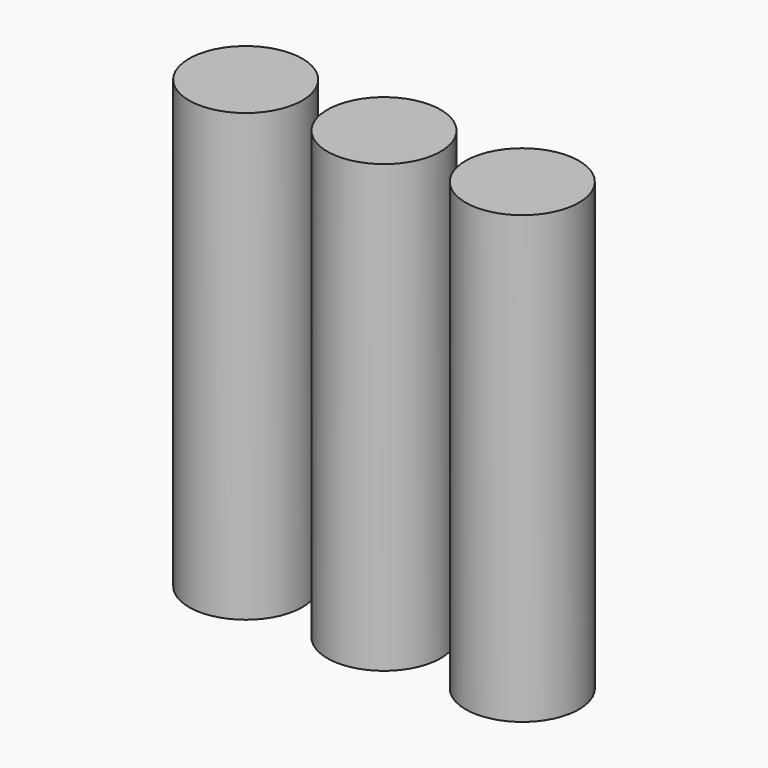
from build123d import *

# Parameters (mm, degrees)
CYLINDER007_R             = 6.35
CYLINDER007_DEPTH         = 50
CYLINDER006_R             = 6.35
CYLINDER006_DEPTH         = 50
CYLINDER009_R             = 6.35
CYLINDER009_DEPTH         = 50
CYLINDER008_R             = 6.35
CYLINDER008_DEPTH         = 50
FUSION004_PLACEMENT_ANGLE = 180
FUSION005_PLACEMENT_ANGLE = 270


with BuildPart() as cylinder007:
    # Cylinder007 → Cylinder007 (new body)
    with BuildSketch(Plane.XY):
        Circle(CYLINDER007_R)
    extrude(amount=CYLINDER007_DEPTH)


with BuildPart() as fusion003:
    # Cylinder006 → Cylinder006 (new body)
    with BuildSketch(Plane(origin=(0, 15.5, 0), x_dir=(1, 0, 0), z_dir=(0, 0, 1))):
        Circle(CYLINDER006_R)
    extrude(amount=CYLINDER006_DEPTH)

    # Fusion003: union Cylinder007
    add(cylinder007.part)


with BuildPart() as cylinder009:
    # Cylinder009 → Cylinder009 (new body)
    with BuildSketch(Plane.XY):
        Circle(CYLINDER009_R)
    extrude(amount=CYLINDER009_DEPTH)


with BuildPart() as fusion005:
    # Cylinder008 → Cylinder008 (new body)
    with BuildSketch(Plane(origin=(0, 15.5, 0), x_dir=(1, 0, 0), z_dir=(0, 0, 1))):
        Circle(CYLINDER008_R)
    extrude(amount=CYLINDER008_DEPTH)

    # Fusion004: union Cylinder009
    add(cylinder009.part)


with BuildPart() as fusion005_1:
    # Fusion004 placement: moved
    add(fusion005.part.rotate(Axis((0, 0, 0), (0, 0, 1)), FUSION004_PLACEMENT_ANGLE))

    # Fusion005: union Fusion003
    add(fusion003.part)


with BuildPart() as fusion005_2:
    # Fusion005 placement: moved
    add(fusion005_1.part.rotate(Axis((0, 0, 0), (0, 0, 1)), FUSION005_PLACEMENT_ANGLE))


solid = fusion005_2.part
